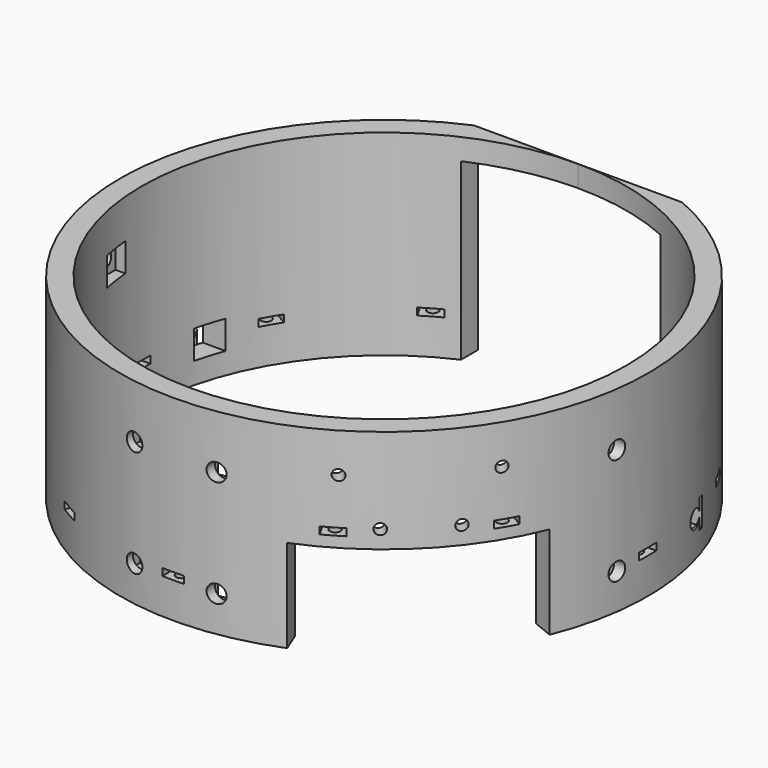
from build123d import *

# Parameters (mm, degrees)
BOX872_W                     = 8
BOX872_H                     = 2.5
BOX872_DEPTH                 = 8
BOX863_W                     = 8
BOX863_H                     = 2.5
BOX863_DEPTH                 = 8
BOX873_W                     = 8
BOX873_H                     = 2.5
BOX873_DEPTH                 = 8
BOX866_W                     = 8
BOX866_H                     = 2.5
BOX866_DEPTH                 = 8
BOX867_W                     = 8
BOX867_H                     = 2.5
BOX867_DEPTH                 = 8
COMPOUND989_PLACEMENT_ANGLE  = 90
BOX870_W                     = 8
BOX870_H                     = 2.5
BOX870_DEPTH                 = 8
BOX871_W                     = 8
BOX871_H                     = 2.5
BOX871_DEPTH                 = 8
COMPOUND991_PLACEMENT_ANGLE  = 90
BOX822_W                     = 8
BOX822_H                     = 2.5
BOX822_DEPTH                 = 8
BOX824_W                     = 8
BOX824_H                     = 2.5
BOX824_DEPTH                 = 8
BOX821_W                     = 8
BOX821_H                     = 2.5
BOX821_DEPTH                 = 8
BOX875_W                     = 8
BOX875_H                     = 20
BOX875_DEPTH                 = 8
BOX865_W                     = 8
BOX865_H                     = 20
BOX865_DEPTH                 = 8
BOX874_W                     = 8
BOX874_H                     = 20
BOX874_DEPTH                 = 8
BOX819_W                     = 8
BOX819_H                     = 20
BOX819_DEPTH                 = 8
BOX823_W                     = 8
BOX823_H                     = 20
BOX823_DEPTH                 = 8
BOX820_W                     = 8
BOX820_H                     = 20
BOX820_DEPTH                 = 8
BOX864_W                     = 8
BOX864_H                     = 20
BOX864_DEPTH                 = 8
BOX862_W                     = 8
BOX862_H                     = 20
BOX862_DEPTH                 = 8
COMPOUND988_PLACEMENT_ANGLE  = 90
BOX869_W                     = 8
BOX869_H                     = 20
BOX869_DEPTH                 = 8
BOX868_W                     = 8
BOX868_H                     = 20
BOX868_DEPTH                 = 8
COMPOUND990_PLACEMENT_ANGLE  = 90
CYLINDER1856_R               = 2.5
CYLINDER1856_DEPTH           = 40
CYLINDER1853_R               = 2.5
CYLINDER1853_DEPTH           = 40
COMPOUND995_PLACEMENT_ANGLE  = 90
CYLINDER1855_R               = 2.5
CYLINDER1855_DEPTH           = 40
CYLINDER1857_R               = 2.5
CYLINDER1857_DEPTH           = 40
COMPOUND994_PLACEMENT_ANGLE  = 90
CYLINDER1854_R               = 2.5
CYLINDER1854_DEPTH           = 40
CYLINDER1852_R               = 2.5
CYLINDER1852_DEPTH           = 40
CYLINDER1849_R               = 2.5
CYLINDER1849_DEPTH           = 40
CYLINDER1884_R               = 2.5
CYLINDER1884_DEPTH           = 40
CYLINDER1882_R               = 2.5
CYLINDER1882_DEPTH           = 40
CYLINDER1883_R               = 2.5
CYLINDER1883_DEPTH           = 40
BOX845_W                     = 6
BOX845_H                     = 4
BOX845_DEPTH                 = 6
BOX846_W                     = 6
BOX846_H                     = 4
BOX846_DEPTH                 = 6
COMPOUND985_PLACEMENT_ANGLE  = 225
CYLINDER1881_R               = 1.5
CYLINDER1881_DEPTH           = 50
COMPOUND983_PLACEMENT_ANGLE  = 225
CYLINDER1880_R               = 1.5
CYLINDER1880_DEPTH           = 50
COMPOUND984_PLACEMENT_ANGLE  = 225
BOX843_W                     = 6
BOX843_H                     = 4
BOX843_DEPTH                 = 6
BOX844_W                     = 6
BOX844_H                     = 4
BOX844_DEPTH                 = 6
COMPOUND981_PLACEMENT_ANGLE  = 225
CYLINDER1879_R               = 1.5
CYLINDER1879_DEPTH           = 50
COMPOUND979_PLACEMENT_ANGLE  = 225
CYLINDER1878_R               = 1.5
CYLINDER1878_DEPTH           = 50
COMPOUND978_PLACEMENT_ANGLE  = 225
CYLINDER1869_R               = 1.5
CYLINDER1869_DEPTH           = 72
CYLINDER1869_PLACEMENT_ANGLE = 30
CYLINDER1868_R               = 1.5
CYLINDER1868_DEPTH           = 72
CYLINDER1868_PLACEMENT_ANGLE = 60
CYLINDER1866_R               = 1.5
CYLINDER1866_DEPTH           = 72
CYLINDER1873_R               = 1.5
CYLINDER1873_DEPTH           = 72
CYLINDER1873_PLACEMENT_ANGLE = 120
CYLINDER1867_R               = 1.5
CYLINDER1867_DEPTH           = 72
CYLINDER1867_PLACEMENT_ANGLE = 150
CYLINDER1877_R               = 1.5
CYLINDER1877_DEPTH           = 72
CYLINDER1875_R               = 1.5
CYLINDER1875_DEPTH           = 72
CYLINDER1875_PLACEMENT_ANGLE = 210
CYLINDER1876_R               = 1.5
CYLINDER1876_DEPTH           = 72
CYLINDER1876_PLACEMENT_ANGLE = 240
CYLINDER1871_R               = 1.5
CYLINDER1871_DEPTH           = 72
CYLINDER1872_R               = 1.5
CYLINDER1872_DEPTH           = 72
CYLINDER1872_PLACEMENT_ANGLE = 60
CYLINDER1870_R               = 1.5
CYLINDER1870_DEPTH           = 72
CYLINDER1870_PLACEMENT_ANGLE = 30
CYLINDER1874_R               = 1.5
CYLINDER1874_DEPTH           = 72
BOX832_W                     = 6
BOX832_H                     = 8
BOX832_DEPTH                 = 2
BOX832_PLACEMENT_ANGLE       = 30
BOX837_W                     = 6
BOX837_H                     = 8
BOX837_DEPTH                 = 2
BOX837_PLACEMENT_ANGLE       = 60
BOX835_W                     = 6
BOX835_H                     = 8
BOX835_DEPTH                 = 2
BOX840_W                     = 6
BOX840_H                     = 8
BOX840_DEPTH                 = 2
BOX840_PLACEMENT_ANGLE       = 120
BOX834_W                     = 6
BOX834_H                     = 8
BOX834_DEPTH                 = 2
BOX834_PLACEMENT_ANGLE       = 150
BOX838_W                     = 6
BOX838_H                     = 8
BOX838_DEPTH                 = 2
BOX836_W                     = 6
BOX836_H                     = 8
BOX836_DEPTH                 = 2
BOX836_PLACEMENT_ANGLE       = 210
BOX842_W                     = 6
BOX842_H                     = 8
BOX842_DEPTH                 = 2
BOX842_PLACEMENT_ANGLE       = 240
BOX833_W                     = 6
BOX833_H                     = 8
BOX833_DEPTH                 = 2
BOX839_W                     = 6
BOX839_H                     = 8
BOX839_DEPTH                 = 2
BOX839_PLACEMENT_ANGLE       = 60
BOX841_W                     = 6
BOX841_H                     = 8
BOX841_DEPTH                 = 2
BOX841_PLACEMENT_ANGLE       = 30
BOX831_W                     = 6
BOX831_H                     = 8
BOX831_DEPTH                 = 2
BOX830_W                     = 200
BOX830_H                     = 200
BOX830_DEPTH                 = 60
BOX830_PLACEMENT_ANGLE       = 202
BOX828_W                     = 200
BOX828_H                     = 200
BOX828_DEPTH                 = 60
BOX828_PLACEMENT_ANGLE       = 22
BOX829_W                     = 200
BOX829_H                     = 120
BOX829_DEPTH                 = 60
BOX829_PLACEMENT_ANGLE       = 225
BOX827_W                     = 148
BOX827_H                     = 26
BOX827_DEPTH                 = 55
BOX826_W                     = 56
BOX826_H                     = 200
BOX826_DEPTH                 = 49
TUBE045_R                    = 74
TUBE045_R_2                  = 68
TUBE045_DEPTH                = 55


with BuildPart() as krychle872:
    # Box872 → Box872 (new body)
    with BuildSketch(Plane(origin=(-68, 16, 35), x_dir=(0, 1, 0), z_dir=(0, 0, 1))):
        with Locations((4, 1.25)):
            Rectangle(BOX872_W, BOX872_H)
    extrude(amount=BOX872_DEPTH)


with BuildPart() as krychle863:
    # Box863 → Box863 (new body)
    with BuildSketch(Plane(origin=(-68, -14, 65), x_dir=(0, 1, 0), z_dir=(0, 0, 1))):
        with Locations((4, 1.25)):
            Rectangle(BOX863_W, BOX863_H)
    extrude(amount=BOX863_DEPTH)


with BuildPart() as compound992:
    # Box873 → Box873 (new body)
    with BuildSketch(Plane(origin=(-68, -14, 35), x_dir=(0, 1, 0), z_dir=(0, 0, 1))):
        with Locations((4, 1.25)):
            Rectangle(BOX873_W, BOX873_H)
    extrude(amount=BOX873_DEPTH)

    # Compound992: union Krychle872, Krychle863
    add(krychle872.part)
    add(krychle863.part)


with BuildPart() as mirror010:
    # mirror010: instance of Compound992
    add(compound992.part.mirror(Plane(origin=(0, 0, 0), x_dir=(0, -1, 0), z_dir=(1, 0, 0))))


with BuildPart() as krychle866:
    # Box866 → Box866 (new body)
    with BuildSketch(Plane(origin=(-68, -14, 65), x_dir=(0, 1, 0), z_dir=(0, 0, 1))):
        with Locations((4, 1.25)):
            Rectangle(BOX866_W, BOX866_H)
    extrude(amount=BOX866_DEPTH)


with BuildPart() as compound989:
    # Box867 → Box867 (new body)
    with BuildSketch(Plane(origin=(-68, -14, 35), x_dir=(0, 1, 0), z_dir=(0, 0, 1))):
        with Locations((4, 1.25)):
            Rectangle(BOX867_W, BOX867_H)
    extrude(amount=BOX867_DEPTH)

    # Compound989: union Krychle866
    add(krychle866.part)


with BuildPart() as compound989_1:
    # Compound989 placement: moved
    add(compound989.part.moved(Location((1.5, 0, 0))).rotate(Axis((1.5, 0, 0), (0, 0, 1)), COMPOUND989_PLACEMENT_ANGLE))


with BuildPart() as krychle870:
    # Box870 → Box870 (new body)
    with BuildSketch(Plane(origin=(-68, -14, 65), x_dir=(0, 1, 0), z_dir=(0, 0, 1))):
        with Locations((4, 1.25)):
            Rectangle(BOX870_W, BOX870_H)
    extrude(amount=BOX870_DEPTH)


with BuildPart() as compound986:
    # Box871 → Box871 (new body)
    with BuildSketch(Plane(origin=(-68, -14, 35), x_dir=(0, 1, 0), z_dir=(0, 0, 1))):
        with Locations((4, 1.25)):
            Rectangle(BOX871_W, BOX871_H)
    extrude(amount=BOX871_DEPTH)

    # Compound991: union Krychle870
    add(krychle870.part)


with BuildPart() as compound986_1:
    # Compound991 placement: moved
    add(compound986.part.moved(Location((-21.5, 0, 0))).rotate(Axis((-21.5, 0, 0), (0, 0, 1)), COMPOUND991_PLACEMENT_ANGLE))

    # Compound986: union Compound989
    add(compound989_1.part)


with BuildPart() as krychle822:
    # Box822 → Box822 (new body)
    with BuildSketch(Plane(origin=(-68, 16, 35), x_dir=(0, 1, 0), z_dir=(0, 0, 1))):
        with Locations((4, 1.25)):
            Rectangle(BOX822_W, BOX822_H)
    extrude(amount=BOX822_DEPTH)


with BuildPart() as krychle824:
    # Box824 → Box824 (new body)
    with BuildSketch(Plane(origin=(-68, -14, 65), x_dir=(0, 1, 0), z_dir=(0, 0, 1))):
        with Locations((4, 1.25)):
            Rectangle(BOX824_W, BOX824_H)
    extrude(amount=BOX824_DEPTH)


with BuildPart() as compound958:
    # Box821 → Box821 (new body)
    with BuildSketch(Plane(origin=(-68, -14, 35), x_dir=(0, 1, 0), z_dir=(0, 0, 1))):
        with Locations((4, 1.25)):
            Rectangle(BOX821_W, BOX821_H)
    extrude(amount=BOX821_DEPTH)

    # Compound967: union Krychle822, Krychle824
    add(krychle822.part)
    add(krychle824.part)

    # Compound958: union mirror010, Compound986
    add(mirror010.part)
    add(compound986_1.part)


with BuildPart() as krychle875:
    # Box875 → Box875 (new body)
    with BuildSketch(Plane(origin=(-48, 16, 35), x_dir=(0, 1, 0), z_dir=(0, 0, 1))):
        with Locations((4, 10)):
            Rectangle(BOX875_W, BOX875_H)
    extrude(amount=BOX875_DEPTH)


with BuildPart() as krychle865:
    # Box865 → Box865 (new body)
    with BuildSketch(Plane(origin=(-48, -14, 65), x_dir=(0, 1, 0), z_dir=(0, 0, 1))):
        with Locations((4, 10)):
            Rectangle(BOX865_W, BOX865_H)
    extrude(amount=BOX865_DEPTH)


with BuildPart() as compound993:
    # Box874 → Box874 (new body)
    with BuildSketch(Plane(origin=(-48, -14, 35), x_dir=(0, 1, 0), z_dir=(0, 0, 1))):
        with Locations((4, 10)):
            Rectangle(BOX874_W, BOX874_H)
    extrude(amount=BOX874_DEPTH)

    # Compound993: union Krychle875, Krychle865
    add(krychle875.part)
    add(krychle865.part)


with BuildPart() as mirror011:
    # mirror011: instance of Compound993
    add(compound993.part.mirror(Plane(origin=(0, 0, 0), x_dir=(0, -1, 0), z_dir=(1, 0, 0))))


with BuildPart() as krychle819:
    # Box819 → Box819 (new body)
    with BuildSketch(Plane(origin=(-48, 16, 35), x_dir=(0, 1, 0), z_dir=(0, 0, 1))):
        with Locations((4, 10)):
            Rectangle(BOX819_W, BOX819_H)
    extrude(amount=BOX819_DEPTH)


with BuildPart() as krychle823:
    # Box823 → Box823 (new body)
    with BuildSketch(Plane(origin=(-48, -14, 65), x_dir=(0, 1, 0), z_dir=(0, 0, 1))):
        with Locations((4, 10)):
            Rectangle(BOX823_W, BOX823_H)
    extrude(amount=BOX823_DEPTH)


with BuildPart() as compound972:
    # Box820 → Box820 (new body)
    with BuildSketch(Plane(origin=(-48, -14, 35), x_dir=(0, 1, 0), z_dir=(0, 0, 1))):
        with Locations((4, 10)):
            Rectangle(BOX820_W, BOX820_H)
    extrude(amount=BOX820_DEPTH)

    # Compound972: union Krychle819, Krychle823
    add(krychle819.part)
    add(krychle823.part)


with BuildPart() as krychle864:
    # Box864 → Box864 (new body)
    with BuildSketch(Plane(origin=(-48, -14, 65), x_dir=(0, 1, 0), z_dir=(0, 0, 1))):
        with Locations((4, 10)):
            Rectangle(BOX864_W, BOX864_H)
    extrude(amount=BOX864_DEPTH)


with BuildPart() as compound988:
    # Box862 → Box862 (new body)
    with BuildSketch(Plane(origin=(-48, -14, 35), x_dir=(0, 1, 0), z_dir=(0, 0, 1))):
        with Locations((4, 10)):
            Rectangle(BOX862_W, BOX862_H)
    extrude(amount=BOX862_DEPTH)

    # Compound988: union Krychle864
    add(krychle864.part)


with BuildPart() as compound988_1:
    # Compound988 placement: moved
    add(compound988.part.moved(Location((1.5, 0, 0))).rotate(Axis((1.5, 0, 0), (0, 0, 1)), COMPOUND988_PLACEMENT_ANGLE))


with BuildPart() as krychle869:
    # Box869 → Box869 (new body)
    with BuildSketch(Plane(origin=(-48, -14, 65), x_dir=(0, 1, 0), z_dir=(0, 0, 1))):
        with Locations((4, 10)):
            Rectangle(BOX869_W, BOX869_H)
    extrude(amount=BOX869_DEPTH)


with BuildPart() as compound966:
    # Box868 → Box868 (new body)
    with BuildSketch(Plane(origin=(-48, -14, 35), x_dir=(0, 1, 0), z_dir=(0, 0, 1))):
        with Locations((4, 10)):
            Rectangle(BOX868_W, BOX868_H)
    extrude(amount=BOX868_DEPTH)

    # Compound990: union Krychle869
    add(krychle869.part)


with BuildPart() as compound966_1:
    # Compound990 placement: moved
    add(compound966.part.moved(Location((-21.5, 0, 0))).rotate(Axis((-21.5, 0, 0), (0, 0, 1)), COMPOUND990_PLACEMENT_ANGLE))

    # Compound987: union Compound988
    add(compound988_1.part)

    # Compound966: union mirror011, Compound972
    add(mirror011.part)
    add(compound972.part)


with BuildPart() as obj1:
    # Cylinder1856 → Cylinder1856 (new body)
    with BuildSketch(Plane(origin=(-86, -10, 69), x_dir=(0, 0, -1), z_dir=(1, 0, 0))):
        Circle(CYLINDER1856_R)
    extrude(amount=CYLINDER1856_DEPTH)


with BuildPart() as compound995:
    # Cylinder1853 → Cylinder1853 (new body)
    with BuildSketch(Plane(origin=(-86, -10, 39), x_dir=(0, 0, -1), z_dir=(1, 0, 0))):
        Circle(CYLINDER1853_R)
    extrude(amount=CYLINDER1853_DEPTH)

    # Compound995: union obj1
    add(obj1.part)


with BuildPart() as compound995_1:
    # Compound995 placement: moved
    add(compound995.part.moved(Location((-21.5, 0, 0))).rotate(Axis((-21.5, 0, 0), (0, 0, 1)), COMPOUND995_PLACEMENT_ANGLE))


with BuildPart() as obj2:
    # Cylinder1855 → Cylinder1855 (new body)
    with BuildSketch(Plane(origin=(-86, -10, 69), x_dir=(0, 0, -1), z_dir=(1, 0, 0))):
        Circle(CYLINDER1855_R)
    extrude(amount=CYLINDER1855_DEPTH)


with BuildPart() as compound952:
    # Cylinder1857 → Cylinder1857 (new body)
    with BuildSketch(Plane(origin=(-86, -10, 39), x_dir=(0, 0, -1), z_dir=(1, 0, 0))):
        Circle(CYLINDER1857_R)
    extrude(amount=CYLINDER1857_DEPTH)

    # Compound994: union obj2
    add(obj2.part)


with BuildPart() as compound952_1:
    # Compound994 placement: moved
    add(compound952.part.moved(Location((1.5, 0, 0))).rotate(Axis((1.5, 0, 0), (0, 0, 1)), COMPOUND994_PLACEMENT_ANGLE))

    # Compound952: union Compound995
    add(compound995_1.part)


with BuildPart() as obj3:
    # Cylinder1854 → Cylinder1854 (new body)
    with BuildSketch(Plane(origin=(-86, 20, 39), x_dir=(0, 0, -1), z_dir=(1, 0, 0))):
        Circle(CYLINDER1854_R)
    extrude(amount=CYLINDER1854_DEPTH)


with BuildPart() as obj4:
    # Cylinder1852 → Cylinder1852 (new body)
    with BuildSketch(Plane(origin=(-86, -10, 69), x_dir=(0, 0, -1), z_dir=(1, 0, 0))):
        Circle(CYLINDER1852_R)
    extrude(amount=CYLINDER1852_DEPTH)


with BuildPart() as compound951:
    # Cylinder1849 → Cylinder1849 (new body)
    with BuildSketch(Plane(origin=(-86, -10, 39), x_dir=(0, 0, -1), z_dir=(1, 0, 0))):
        Circle(CYLINDER1849_R)
    extrude(amount=CYLINDER1849_DEPTH)

    # Compound951: union obj3, obj4
    add(obj3.part)
    add(obj4.part)


with BuildPart() as compound944_mirrored:
    # mirror009: instance of Compound951
    add(compound951.part.mirror(Plane(origin=(0, 0, 0), x_dir=(0, -1, 0), z_dir=(1, 0, 0))))


with BuildPart() as obj5:
    # Cylinder1884 → Cylinder1884 (new body)
    with BuildSketch(Plane(origin=(-86, 20, 39), x_dir=(0, 0, -1), z_dir=(1, 0, 0))):
        Circle(CYLINDER1884_R)
    extrude(amount=CYLINDER1884_DEPTH)


with BuildPart() as obj6:
    # Cylinder1882 → Cylinder1882 (new body)
    with BuildSketch(Plane(origin=(-86, -10, 69), x_dir=(0, 0, -1), z_dir=(1, 0, 0))):
        Circle(CYLINDER1882_R)
    extrude(amount=CYLINDER1882_DEPTH)


with BuildPart() as compound973:
    # Cylinder1883 → Cylinder1883 (new body)
    with BuildSketch(Plane(origin=(-86, -10, 39), x_dir=(0, 0, -1), z_dir=(1, 0, 0))):
        Circle(CYLINDER1883_R)
    extrude(amount=CYLINDER1883_DEPTH)

    # Compound971: union obj5, obj6
    add(obj5.part)
    add(obj6.part)

    # Compound973: union Compound952, Compound944 (mirrored)
    add(compound952_1.part)
    add(compound944_mirrored.part)


with BuildPart() as krychle845:
    # Box845 → Box845 (new body)
    with BuildSketch(Plane(origin=(6, 66, -63), x_dir=(1, 0, 0), z_dir=(0, 0, 1))):
        with Locations((3, 2)):
            Rectangle(BOX845_W, BOX845_H)
    extrude(amount=BOX845_DEPTH)


with BuildPart() as compound985:
    # Box846 → Box846 (new body)
    with BuildSketch(Plane(origin=(-12, 66, -63), x_dir=(1, 0, 0), z_dir=(0, 0, 1))):
        with Locations((3, 2)):
            Rectangle(BOX846_W, BOX846_H)
    extrude(amount=BOX846_DEPTH)

    # Compound985: union Krychle845
    add(krychle845.part)


with BuildPart() as compound985_1:
    # Compound985 placement: moved
    add(compound985.part.moved(Location((0, 0, 120))).rotate(Axis((0, 0, 120), (0, 0, 1)), COMPOUND985_PLACEMENT_ANGLE))


with BuildPart() as compound983:
    # Cylinder1881 → Cylinder1881 (new body)
    with BuildSketch(Plane(origin=(9, 100, 59), x_dir=(1, 0, 0), z_dir=(0, -1, 0))):
        Circle(CYLINDER1881_R)
    extrude(amount=CYLINDER1881_DEPTH)


with BuildPart() as compound983_1:
    # Compound983 placement: moved
    add(compound983.part.rotate(Axis((0, 0, 0), (0, 0, 1)), COMPOUND983_PLACEMENT_ANGLE))


with BuildPart() as compound982:
    # Cylinder1880 → Cylinder1880 (new body)
    with BuildSketch(Plane(origin=(-9, 100, 59), x_dir=(1, 0, 0), z_dir=(0, -1, 0))):
        Circle(CYLINDER1880_R)
    extrude(amount=CYLINDER1880_DEPTH)


with BuildPart() as compound982_1:
    # Compound984 placement: moved
    add(compound982.part.rotate(Axis((0, 0, 0), (0, 0, 1)), COMPOUND984_PLACEMENT_ANGLE))

    # Compound982: union Compound983
    add(compound983_1.part)


with BuildPart() as compound982_2:
    # Compound982 placement: moved
    add(compound982_1.part.moved(Location((0, 0, 1))))


with BuildPart() as krychle843:
    # Box843 → Box843 (new body)
    with BuildSketch(Plane(origin=(15, 64, -50), x_dir=(1, 0, 0), z_dir=(0, 0, 1))):
        with Locations((3, 2)):
            Rectangle(BOX843_W, BOX843_H)
    extrude(amount=BOX843_DEPTH)


with BuildPart() as compound981:
    # Box844 → Box844 (new body)
    with BuildSketch(Plane(origin=(-21, 64, -50), x_dir=(1, 0, 0), z_dir=(0, 0, 1))):
        with Locations((3, 2)):
            Rectangle(BOX844_W, BOX844_H)
    extrude(amount=BOX844_DEPTH)

    # Compound981: union Krychle843
    add(krychle843.part)


with BuildPart() as compound981_1:
    # Compound981 placement: moved
    add(compound981.part.moved(Location((0, 0, 120))).rotate(Axis((0, 0, 120), (0, 0, 1)), COMPOUND981_PLACEMENT_ANGLE))


with BuildPart() as compound979:
    # Cylinder1879 → Cylinder1879 (new body)
    with BuildSketch(Plane(origin=(18, 100, 72), x_dir=(1, 0, 0), z_dir=(0, -1, 0))):
        Circle(CYLINDER1879_R)
    extrude(amount=CYLINDER1879_DEPTH)


with BuildPart() as compound979_1:
    # Compound979 placement: moved
    add(compound979.part.rotate(Axis((0, 0, 0), (0, 0, 1)), COMPOUND979_PLACEMENT_ANGLE))


with BuildPart() as compound980:
    # Cylinder1878 → Cylinder1878 (new body)
    with BuildSketch(Plane(origin=(-18, 100, 72), x_dir=(1, 0, 0), z_dir=(0, -1, 0))):
        Circle(CYLINDER1878_R)
    extrude(amount=CYLINDER1878_DEPTH)


with BuildPart() as compound980_1:
    # Compound978 placement: moved
    add(compound980.part.rotate(Axis((0, 0, 0), (0, 0, 1)), COMPOUND978_PLACEMENT_ANGLE))

    # Compound980: union Compound979
    add(compound979_1.part)


with BuildPart() as compound980_2:
    # Compound980 placement: moved
    add(compound980_1.part.moved(Location((0, 0, 1))))


with BuildPart() as obj7:
    # Cylinder1869 → Cylinder1869 (new body)
    with BuildSketch(Plane.XY):
        Circle(CYLINDER1869_R)
    extrude(amount=CYLINDER1869_DEPTH)


with BuildPart() as obj7_1:
    # Cylinder1869 placement: moved
    add(obj7.part.moved(Location((35.5, -61.487804, 0))).rotate(Axis((35.5, -61.487804, 0), (0, 0, 1)), CYLINDER1869_PLACEMENT_ANGLE))


with BuildPart() as obj8:
    # Cylinder1868 → Cylinder1868 (new body)
    with BuildSketch(Plane.XY):
        Circle(CYLINDER1868_R)
    extrude(amount=CYLINDER1868_DEPTH)


with BuildPart() as obj8_1:
    # Cylinder1868 placement: moved
    add(obj8.part.moved(Location((61.487804, -35.5, 0))).rotate(Axis((61.487804, -35.5, 0), (0, 0, 1)), CYLINDER1868_PLACEMENT_ANGLE))


with BuildPart() as obj9:
    # Cylinder1866 → Cylinder1866 (new body)
    with BuildSketch(Plane(origin=(71, 0, 0), x_dir=(0, 1, 0), z_dir=(0, 0, 1))):
        Circle(CYLINDER1866_R)
    extrude(amount=CYLINDER1866_DEPTH)


with BuildPart() as obj10:
    # Cylinder1873 → Cylinder1873 (new body)
    with BuildSketch(Plane.XY):
        Circle(CYLINDER1873_R)
    extrude(amount=CYLINDER1873_DEPTH)


with BuildPart() as obj10_1:
    # Cylinder1873 placement: moved
    add(obj10.part.moved(Location((61.487804, 35.5, 0))).rotate(Axis((61.487804, 35.5, 0), (0, 0, 1)), CYLINDER1873_PLACEMENT_ANGLE))


with BuildPart() as obj11:
    # Cylinder1867 → Cylinder1867 (new body)
    with BuildSketch(Plane.XY):
        Circle(CYLINDER1867_R)
    extrude(amount=CYLINDER1867_DEPTH)


with BuildPart() as obj11_1:
    # Cylinder1867 placement: moved
    add(obj11.part.moved(Location((35.5, 61.487804, 0))).rotate(Axis((35.5, 61.487804, 0), (0, 0, 1)), CYLINDER1867_PLACEMENT_ANGLE))


with BuildPart() as obj12:
    # Cylinder1877 → Cylinder1877 (new body)
    with BuildSketch(Plane(origin=(0, 71, 0), x_dir=(-1, 0, 0), z_dir=(0, 0, 1))):
        Circle(CYLINDER1877_R)
    extrude(amount=CYLINDER1877_DEPTH)


with BuildPart() as obj13:
    # Cylinder1875 → Cylinder1875 (new body)
    with BuildSketch(Plane.XY):
        Circle(CYLINDER1875_R)
    extrude(amount=CYLINDER1875_DEPTH)


with BuildPart() as obj13_1:
    # Cylinder1875 placement: moved
    add(obj13.part.moved(Location((-35.5, 61.487804, 0))).rotate(Axis((-35.5, 61.487804, 0), (0, 0, 1)), CYLINDER1875_PLACEMENT_ANGLE))


with BuildPart() as obj14:
    # Cylinder1876 → Cylinder1876 (new body)
    with BuildSketch(Plane.XY):
        Circle(CYLINDER1876_R)
    extrude(amount=CYLINDER1876_DEPTH)


with BuildPart() as obj14_1:
    # Cylinder1876 placement: moved
    add(obj14.part.moved(Location((-61.487804, 35.5, 0))).rotate(Axis((-61.487804, 35.5, 0), (0, 0, 1)), CYLINDER1876_PLACEMENT_ANGLE))


with BuildPart() as obj15:
    # Cylinder1871 → Cylinder1871 (new body)
    with BuildSketch(Plane(origin=(-71, 0, 0), x_dir=(0, -1, 0), z_dir=(0, 0, 1))):
        Circle(CYLINDER1871_R)
    extrude(amount=CYLINDER1871_DEPTH)


with BuildPart() as obj16:
    # Cylinder1872 → Cylinder1872 (new body)
    with BuildSketch(Plane.XY):
        Circle(CYLINDER1872_R)
    extrude(amount=CYLINDER1872_DEPTH)


with BuildPart() as obj16_1:
    # Cylinder1872 placement: moved
    add(obj16.part.moved(Location((-61.487804, -35.5, 0))).rotate(Axis((-61.487804, -35.5, 0), (0, 0, -1)), CYLINDER1872_PLACEMENT_ANGLE))


with BuildPart() as obj17:
    # Cylinder1870 → Cylinder1870 (new body)
    with BuildSketch(Plane.XY):
        Circle(CYLINDER1870_R)
    extrude(amount=CYLINDER1870_DEPTH)


with BuildPart() as obj17_1:
    # Cylinder1870 placement: moved
    add(obj17.part.moved(Location((-35.5, -61.487804, 0))).rotate(Axis((-35.5, -61.487804, 0), (0, 0, -1)), CYLINDER1870_PLACEMENT_ANGLE))


with BuildPart() as compound977:
    # Cylinder1874 → Cylinder1874 (new body)
    with BuildSketch(Plane(origin=(0, -71, 0), x_dir=(1, 0, 0), z_dir=(0, 0, 1))):
        Circle(CYLINDER1874_R)
    extrude(amount=CYLINDER1874_DEPTH)

    # Compound977: union obj7, obj8, obj9, obj10, obj11, obj12, obj13, obj14, obj15, obj16, obj17
    add(obj7_1.part)
    add(obj8_1.part)
    add(obj9.part)
    add(obj10_1.part)
    add(obj11_1.part)
    add(obj12.part)
    add(obj13_1.part)
    add(obj14_1.part)
    add(obj15.part)
    add(obj16_1.part)
    add(obj17_1.part)


with BuildPart() as compound977_1:
    # Compound977 placement: moved
    add(compound977.part.moved(Location((0, 0, -4))))


with BuildPart() as krychle832:
    # Box832 → Box832 (new body)
    with BuildSketch(Plane.XY):
        with Locations((3, 4)):
            Rectangle(BOX832_W, BOX832_H)
    extrude(amount=BOX832_DEPTH)


with BuildPart() as krychle832_1:
    # Box832 placement: moved
    add(krychle832.part.moved(Location((34.9, -66.45, 58))).rotate(Axis((34.9, -66.45, 58), (0, 0, 1)), BOX832_PLACEMENT_ANGLE))


with BuildPart() as krychle837:
    # Box837 → Box837 (new body)
    with BuildSketch(Plane.XY):
        with Locations((3, 4)):
            Rectangle(BOX837_W, BOX837_H)
    extrude(amount=BOX837_DEPTH)


with BuildPart() as krychle837_1:
    # Box837 placement: moved
    add(krychle837.part.moved(Location((63.45, -40.1, 58))).rotate(Axis((63.45, -40.1, 58), (0, 0, 1)), BOX837_PLACEMENT_ANGLE))


with BuildPart() as krychle835:
    # Box835 → Box835 (new body)
    with BuildSketch(Plane(origin=(75, -3, 39), x_dir=(0, 1, 0), z_dir=(0, 0, 1))):
        with Locations((3, 4)):
            Rectangle(BOX835_W, BOX835_H)
    extrude(amount=BOX835_DEPTH)


with BuildPart() as krychle840:
    # Box840 → Box840 (new body)
    with BuildSketch(Plane.XY):
        with Locations((3, 4)):
            Rectangle(BOX840_W, BOX840_H)
    extrude(amount=BOX840_DEPTH)


with BuildPart() as krychle840_1:
    # Box840 placement: moved
    add(krychle840.part.moved(Location((66.451905, 34.901924, 39))).rotate(Axis((66.451905, 34.901924, 39), (0, 0, 1)), BOX840_PLACEMENT_ANGLE))


with BuildPart() as krychle834:
    # Box834 → Box834 (new body)
    with BuildSketch(Plane.XY):
        with Locations((3, 4)):
            Rectangle(BOX834_W, BOX834_H)
    extrude(amount=BOX834_DEPTH)


with BuildPart() as krychle834_1:
    # Box834 placement: moved
    add(krychle834.part.moved(Location((40.098076, 63.451905, 39))).rotate(Axis((40.098076, 63.451905, 39), (0, 0, 1)), BOX834_PLACEMENT_ANGLE))


with BuildPart() as krychle838:
    # Box838 → Box838 (new body)
    with BuildSketch(Plane(origin=(3, 75, 39), x_dir=(-1, 0, 0), z_dir=(0, 0, 1))):
        with Locations((3, 4)):
            Rectangle(BOX838_W, BOX838_H)
    extrude(amount=BOX838_DEPTH)


with BuildPart() as krychle836:
    # Box836 → Box836 (new body)
    with BuildSketch(Plane.XY):
        with Locations((3, 4)):
            Rectangle(BOX836_W, BOX836_H)
    extrude(amount=BOX836_DEPTH)


with BuildPart() as krychle836_1:
    # Box836 placement: moved
    add(krychle836.part.moved(Location((-34.901924, 66.451905, 39))).rotate(Axis((-34.901924, 66.451905, 39), (0, 0, 1)), BOX836_PLACEMENT_ANGLE))


with BuildPart() as krychle842:
    # Box842 → Box842 (new body)
    with BuildSketch(Plane.XY):
        with Locations((3, 4)):
            Rectangle(BOX842_W, BOX842_H)
    extrude(amount=BOX842_DEPTH)


with BuildPart() as krychle842_1:
    # Box842 placement: moved
    add(krychle842.part.moved(Location((-63.451905, 40.098076, 39))).rotate(Axis((-63.451905, 40.098076, 39), (0, 0, 1)), BOX842_PLACEMENT_ANGLE))


with BuildPart() as krychle833:
    # Box833 → Box833 (new body)
    with BuildSketch(Plane(origin=(-75, 3, 39), x_dir=(0, -1, 0), z_dir=(0, 0, 1))):
        with Locations((3, 4)):
            Rectangle(BOX833_W, BOX833_H)
    extrude(amount=BOX833_DEPTH)


with BuildPart() as krychle839:
    # Box839 → Box839 (new body)
    with BuildSketch(Plane.XY):
        with Locations((3, 4)):
            Rectangle(BOX839_W, BOX839_H)
    extrude(amount=BOX839_DEPTH)


with BuildPart() as krychle839_1:
    # Box839 placement: moved
    add(krychle839.part.moved(Location((-66.451905, -34.901924, 39))).rotate(Axis((-66.451905, -34.901924, 39), (0, 0, -1)), BOX839_PLACEMENT_ANGLE))


with BuildPart() as krychle841:
    # Box841 → Box841 (new body)
    with BuildSketch(Plane.XY):
        with Locations((3, 4)):
            Rectangle(BOX841_W, BOX841_H)
    extrude(amount=BOX841_DEPTH)


with BuildPart() as krychle841_1:
    # Box841 placement: moved
    add(krychle841.part.moved(Location((-40.098076, -63.451905, 39))).rotate(Axis((-40.098076, -63.451905, 39), (0, 0, -1)), BOX841_PLACEMENT_ANGLE))


with BuildPart() as compound976:
    # Box831 → Box831 (new body)
    with BuildSketch(Plane(origin=(-3, -75, 39), x_dir=(1, 0, 0), z_dir=(0, 0, 1))):
        with Locations((3, 4)):
            Rectangle(BOX831_W, BOX831_H)
    extrude(amount=BOX831_DEPTH)

    # Compound976: union Krychle832, Krychle837, Krychle835, Krychle840, Krychle834, Krychle838, Krychle836, Krychle842, Krychle833, Krychle839, Krychle841
    add(krychle832_1.part)
    add(krychle837_1.part)
    add(krychle835.part)
    add(krychle840_1.part)
    add(krychle834_1.part)
    add(krychle838.part)
    add(krychle836_1.part)
    add(krychle842_1.part)
    add(krychle833.part)
    add(krychle839_1.part)
    add(krychle841_1.part)


with BuildPart() as krychle830:
    # Box830 → Box830 (new body)
    with BuildSketch(Plane.XY):
        with Locations((100, 100)):
            Rectangle(BOX830_W, BOX830_H)
    extrude(amount=BOX830_DEPTH)


with BuildPart() as krychle830_1:
    # Box830 placement: moved
    add(krychle830.part.moved(Location((0, 0, -5))).rotate(Axis((0, 0, -5), (0, 0, 1)), BOX830_PLACEMENT_ANGLE))


with BuildPart() as krychle828:
    # Box828 → Box828 (new body)
    with BuildSketch(Plane.XY):
        with Locations((100, 100)):
            Rectangle(BOX828_W, BOX828_H)
    extrude(amount=BOX828_DEPTH)


with BuildPart() as krychle828_1:
    # Box828 placement: moved
    add(krychle828.part.moved(Location((0, 0, -5))).rotate(Axis((0, 0, -5), (0, 0, -1)), BOX828_PLACEMENT_ANGLE))


with BuildPart() as cut607:
    # Box829 → Box829 (new body)
    with BuildSketch(Plane.XY):
        with Locations((100, 60)):
            Rectangle(BOX829_W, BOX829_H)
    extrude(amount=BOX829_DEPTH)


with BuildPart() as cut607_1:
    # Box829 placement: moved
    add(cut607.part.moved(Location((70.710678, 70.710678, -5))).rotate(Axis((70.710678, 70.710678, -5), (0, 0, 1)), BOX829_PLACEMENT_ANGLE))

    # Cut606: cut Krychle828
    add(krychle828_1.part, mode=Mode.SUBTRACT)

    # Cut607: cut Krychle830
    add(krychle830_1.part, mode=Mode.SUBTRACT)


with BuildPart() as krychle827:
    # Box827 → Box827 (new body)
    with BuildSketch(Plane(origin=(-74, 68, 29), x_dir=(1, 0, 0), z_dir=(0, 0, 1))):
        with Locations((74, 13)):
            Rectangle(BOX827_W, BOX827_H)
    extrude(amount=BOX827_DEPTH)


with BuildPart() as krychle826:
    # Box826 → Box826 (new body)
    with BuildSketch(Plane(origin=(-28, 35, 29), x_dir=(1, 0, 0), z_dir=(0, 0, 1))):
        with Locations((28, 100)):
            Rectangle(BOX826_W, BOX826_H)
    extrude(amount=BOX826_DEPTH)


with BuildPart() as cut602:
    # Tube045 → Tube045 (new body)
    with BuildSketch(Plane.XY.offset(29)):
        Circle(TUBE045_R)
        Circle(TUBE045_R_2, mode=Mode.SUBTRACT)
    extrude(amount=TUBE045_DEPTH)

    # Cut605: cut Krychle826
    add(krychle826.part, mode=Mode.SUBTRACT)

    # Cut604: cut Krychle827
    add(krychle827.part, mode=Mode.SUBTRACT)

    # Cut608: cut Cut607
    add(cut607_1.part, mode=Mode.SUBTRACT)

    # Cut609: cut Compound976
    add(compound976.part, mode=Mode.SUBTRACT)

    # Cut610: cut Compound977
    add(compound977_1.part, mode=Mode.SUBTRACT)

    # Cut611: cut Compound980
    add(compound980_2.part, mode=Mode.SUBTRACT)

    # Cut612: cut Compound981
    add(compound981_1.part, mode=Mode.SUBTRACT)

    # Cut613: cut Compound982
    add(compound982_2.part, mode=Mode.SUBTRACT)

    # Cut614: cut Compound985
    add(compound985_1.part, mode=Mode.SUBTRACT)

    # Cut599: cut Compound973
    add(compound973.part, mode=Mode.SUBTRACT)

    # Cut601: cut Compound966
    add(compound966_1.part, mode=Mode.SUBTRACT)

    # Cut602: cut Compound958
    add(compound958.part, mode=Mode.SUBTRACT)


solid = cut602.part
